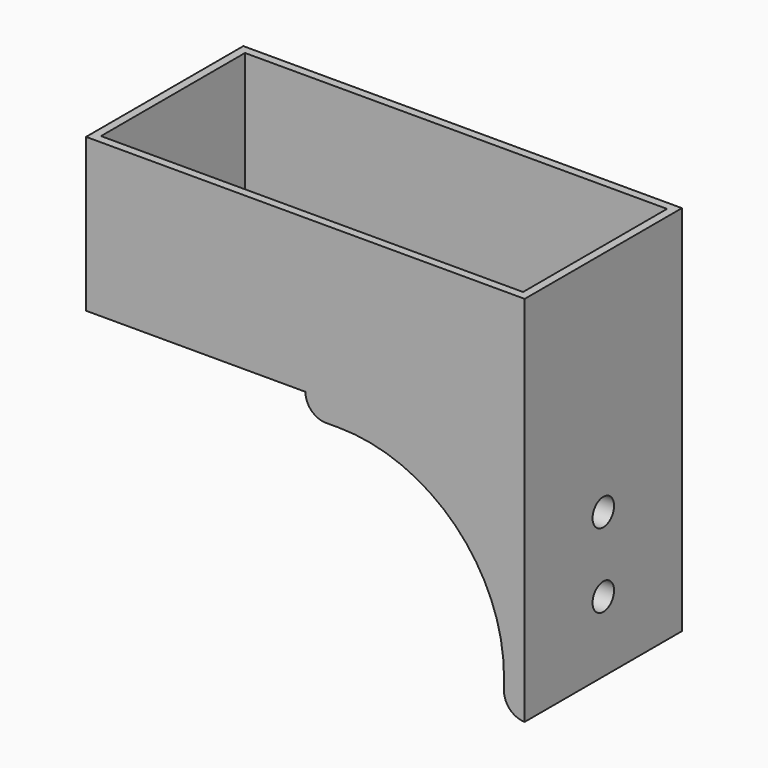
from build123d import *

# Parameters (mm, degrees)
F0_W     = 106
F0_H     = 47.5
F0_W_2   = 102
F0_H_2   = 43.5
F1_DEPTH = 2
F2_W     = 106
F2_H     = 47.5
F2_W_2   = 102
F2_H_2   = 43.5
F3_DEPTH = 35
F5_DEPTH = 47.5
F6_W     = 37.5
F6_H     = 48
F7_DEPTH = 101
F8_R     = 3.25
F9_DEPTH = 25


with BuildPart() as f1:
    # F0 (on Top) → F1 (new body)
    with BuildSketch(Plane.XY):
        Rectangle(F0_W, F0_H)
        Rectangle(F0_W_2, F0_H_2, mode=Mode.SUBTRACT)
        Rectangle(F0_W_2, F0_H_2)
    extrude(amount=F1_DEPTH)

    # F2 (on face) → F3 (join)
    with BuildSketch(Plane.XY.offset(2)):
        Rectangle(F2_W, F2_H)
        Rectangle(F2_W_2, F2_H_2, mode=Mode.SUBTRACT)
    extrude(amount=F3_DEPTH)

    # F4 (on face) → F5 (join)
    with BuildSketch(Plane.XZ.offset(23.75)):
        with BuildLine():
            Line((53, -5), (53, 0))
            Line((53, 0), (0, 0))
            ThreePointArc((0, 0), (1.464466, -3.535534), (5, -5))
            Line((5, -5), (8, -5))
            ThreePointArc((8, -5), (36.284271, -16.715729), (48, -45))
            Line((48, -45), (48, -48))
            ThreePointArc((48, -48), (49.464466, -51.535534), (53, -53))
            Line((53, -53), (53, -5))
        make_face()
    extrude(amount=-F5_DEPTH)

    # F6 (on face) → F7 (cut)
    with BuildSketch(Plane(origin=(-53, 0, 0), x_dir=(0, -1, 0), z_dir=(-1, 0, 0))):
        with Locations((0, -29)):
            Rectangle(F6_W, F6_H)
    extrude(amount=-F7_DEPTH, mode=Mode.SUBTRACT)

    # F8 (on face) → F9 (cut)
    with BuildSketch(Plane(origin=(48, 0, 0), x_dir=(0, -1, 0), z_dir=(-1, 0, 0))):
        with Locations((0, -18)):
            Circle(F8_R)
        with Locations((0, -36)):
            Circle(F8_R)
    extrude(amount=-F9_DEPTH, mode=Mode.SUBTRACT)


solid = f1.part
